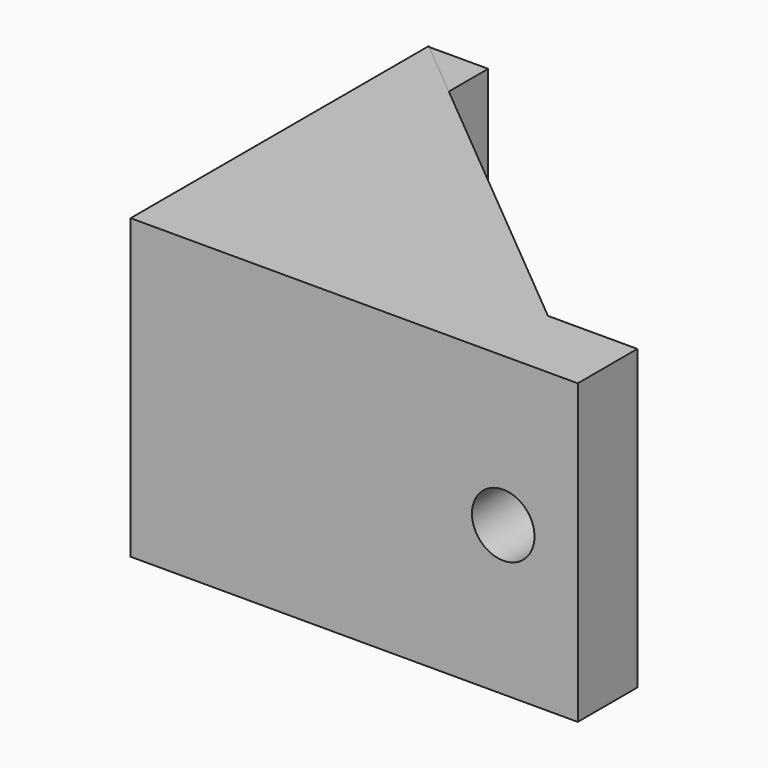
from build123d import *

# Parameters (mm, degrees)
SKETCH_W        = 30
SKETCH_H        = 5
PAD_DEPTH       = 20
SKETCH001_W     = 3.989674
SKETCH001_H     = 19.955276
PAD001_DEPTH    = 20
PAD002_DEPTH    = 3
PAD003_DEPTH    = 3
SKETCH004_R     = 2.1
POCKET_DEPTH    = 10
SKETCH005_R     = 2.1
POCKET001_DEPTH = 8


with BuildPart() as part:
    # Sketch → Pad (new body)
    with BuildSketch(Plane.XY):
        with Locations((15, 2.5)):
            Rectangle(SKETCH_W, SKETCH_H)
    extrude(amount=PAD_DEPTH)

    # Sketch001 (on Face3 of Pad) → Pad001 (join)
    with BuildSketch(Plane(origin=(0, 5, 0), x_dir=(-1, 0, 0), z_dir=(0, 1, 0))):
        with Locations((-1.994837, 9.977638)):
            Rectangle(SKETCH001_W, SKETCH001_H)
    extrude(amount=PAD001_DEPTH)

    # Sketch002 (on DatumPlane) → Pad002 (join)
    with BuildSketch(Plane(origin=(0, 0, 0), x_dir=(1, 0, 0), z_dir=(0, 0, -1))):
        Polygon((0, 0), (30, 0), (0, -25), align=None)
    extrude(amount=-PAD002_DEPTH)

    # Sketch003 (on DatumPlane) → Pad003 (join)
    with BuildSketch(Plane.XY.offset(20)):
        Polygon((0, 0), (0, 25), (30, 0), align=None)
    extrude(amount=-PAD003_DEPTH)

    # Sketch004 (on Face19 of Pad003) → Pocket (cut)
    with BuildSketch(Plane.YZ.offset(3.989674)):
        with Locations((10, 10)):
            Circle(SKETCH004_R)
    extrude(amount=-POCKET_DEPTH, mode=Mode.SUBTRACT)

    # Sketch005 (on Face10 of Pocket) → Pocket001 (cut)
    with BuildSketch(Plane(origin=(0, 5, 0), x_dir=(-1, 0, 0), z_dir=(0, 1, 0))):
        with Locations((-25, 10)):
            Circle(SKETCH005_R)
    extrude(amount=-POCKET001_DEPTH, mode=Mode.SUBTRACT)


solid = part.part
